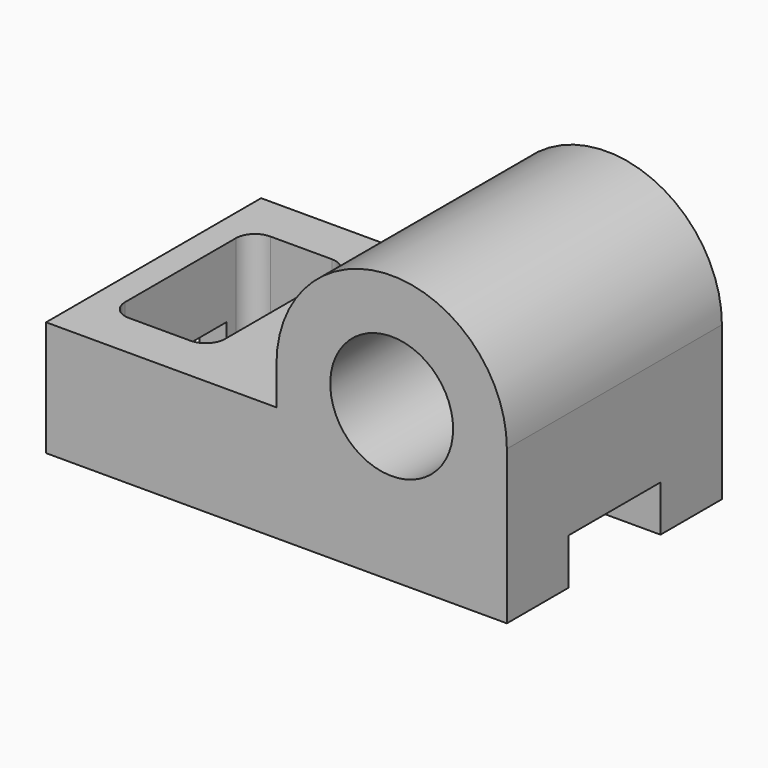
from build123d import *

# Parameters (mm, degrees)
F1_DEPTH = 1778
F2_R     = 406.4
F3_DEPTH = 1778.001
F5_DEPTH = 3048.001
F7_DEPTH = 762.001


with BuildPart() as f1:
    # F0 (on Front) → F1 (new body)
    with BuildSketch(Plane.XZ):
        with BuildLine():
            Line((-1524, -381), (1524, -381))
            Line((1524, -381), (1524, 127))
            Line((1524, 127), (1524, 381))
            Line((1524, 381), (1524, 635))
            ThreePointArc((1524, 635), (762, 1397), (0, 635))
            Line((0, 635), (0, 381))
            Line((0, 381), (-762, 381))
            Line((-762, 381), (-1524, 381))
            Line((-1524, 381), (-1524, -381))
        make_face()
    extrude(amount=F1_DEPTH)

    # F2 (on face) → F3 (cut, through all)
    with BuildSketch(Plane.XZ.offset(1778)):
        with Locations((762, 635)):
            Circle(F2_R)
    extrude(amount=-F3_DEPTH, mode=Mode.SUBTRACT)

    # F4 (on face) → F5 (cut, through all)
    with BuildSketch(Plane.YZ.offset(1524)):
        Polygon((-1270, -76.2), (-1270, -381), (-889, -381), (-508, -381), (-508, -76.2), align=None)
    extrude(amount=-F5_DEPTH, mode=Mode.SUBTRACT)

    # F6 (on face) → F7 (cut, through all)
    with BuildSketch(Plane.XY.offset(381)):
        with BuildLine():
            Line((-1219.2, -1473.2), (-812.8, -1473.2))
            ThreePointArc((-812.8, -1473.2), (-722.997439, -1436.002561), (-685.8, -1346.2))
            Line((-685.8, -1346.2), (-685.8, -431.8))
            ThreePointArc((-685.8, -431.8), (-722.997439, -341.997439), (-812.8, -304.8))
            Line((-812.8, -304.8), (-1219.2, -304.8))
            ThreePointArc((-1219.2, -304.8), (-1309.002561, -341.997439), (-1346.2, -431.8))
            Line((-1346.2, -431.8), (-1346.2, -1346.2))
            ThreePointArc((-1346.2, -1346.2), (-1309.002561, -1436.002561), (-1219.2, -1473.2))
        make_face()
    extrude(amount=-F7_DEPTH, mode=Mode.SUBTRACT)


solid = f1.part
